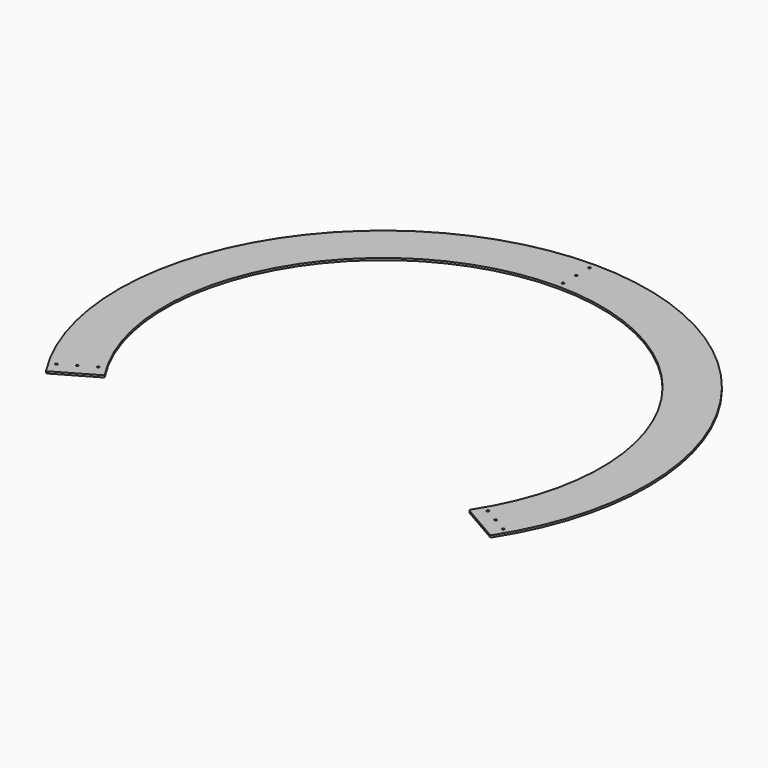
from build123d import *

# Parameters (mm, degrees)
PAD015_DEPTH          = 3
SKETCH096_R           = 1.7
POCKET062_DEPTH       = 2019.841851
POCKET062_DEPTH_BACK  = 2022.841851
POLARPATTERN017_COUNT = 3


with BuildPart() as part:
    # Sketch095 → Pad015 (new body)
    with BuildSketch(Plane.XY):
        with BuildLine():
            ThreePointArc((337.01048, -215.462146), (350.845307, 192.113432), (0, 400))
            Line((0, 330), (0, 400))
            ThreePointArc((276.422258, -180.251866), (290.157816, 157.189192), (0, 330))
            ThreePointArc((276.422258, -180.251866), (276.152366, -181.809361), (277.097544, -183.076353))
            Line((277.097544, -183.076353), (334.325427, -216.116886))
            ThreePointArc((334.325427, -216.116886), (335.799237, -216.327901), (337.01048, -215.462146))
        make_face()
    pad015 = extrude(amount=PAD015_DEPTH)

    # Mirrored026: Pad015 across Sketch095 V_Axis
    add(pad015.mirror(Plane(origin=(0, 0, 0), x_dir=(0, 0, 1), z_dir=(1, 0, 0))))

    # Sketch096 → Pocket062 (cut, two sides)
    with BuildSketch(Plane(origin=(0, 330, 0), x_dir=(1, 0, 0), z_dir=(0, 0, 1))) as pocket062_sk:
        with Locations((0, 10)):
            Circle(SKETCH096_R)
        with Locations((0, 35)):
            Circle(SKETCH096_R)
        with Locations((0, 60)):
            Circle(SKETCH096_R)
    pocket062 = extrude(amount=-POCKET062_DEPTH, mode=Mode.SUBTRACT) + extrude(pocket062_sk.sketch, amount=POCKET062_DEPTH_BACK, mode=Mode.SUBTRACT)

    # PolarPattern017: Pocket062 ×3 about axis
    polarpattern017_axis = Axis((0, 0, 0), (0, 0, 1))
    for i in range(1, POLARPATTERN017_COUNT):
        add(pocket062.rotate(polarpattern017_axis, i * 360 / POLARPATTERN017_COUNT), mode=Mode.SUBTRACT)


solid = part.part
